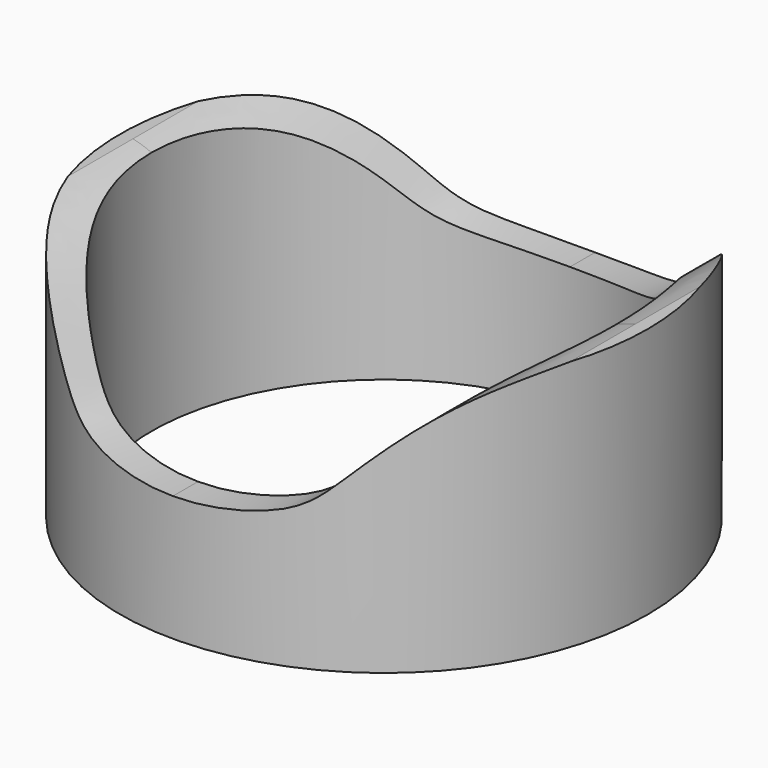
from build123d import *

# Parameters (mm, degrees)
F0_R     = 10.5
F0_R_2   = 9.25
F1_DEPTH = 10
F3_DEPTH = 12.5


with BuildPart() as f1:
    # F0 (on Top) → F1 (new body)
    with BuildSketch(Plane.XY):
        Circle(F0_R)
        Circle(F0_R_2, mode=Mode.SUBTRACT)
    extrude(amount=F1_DEPTH)

    # F2 (on Front) → F3 (cut, symmetric)
    with BuildSketch(Plane.XZ):
        with BuildLine():
            add(Edge.make_bspline(
                [(11.2434588373, 10.0891618058), (11.0047016615, 10.1132977758), (10.7632299901, 10.112965479), (10.5204237755, 10.0891618058)],
                knots=[0, 0, 0, 0, 0.0562635786, 0.0562635786, 0.0562635786, 0.0562635786], degree=3))
            Line((10.5204237755, 10.0891618058), (11.2434588373, 10.0891618058))
        make_face()
        with BuildLine():
            Line((10.5204237755, 10.0891618058), (-10.5204237755, 10.0891618058))
            add(Edge.make_bspline(
                [(-10.5204237755, 10.0891618058), (-9.8416288611, 10.0226156826), (-8.0921208581, 9.3880562532), (-5.7194913073, 6.93683362), (-4.2906021774, 5.397823396), (-1.4143970077, 5.0322200394), (-0.6250849692, 5.0027752295), (0, 5)],
                knots=[0.0562635786, 0.0562635786, 0.0562635786, 0.0562635786, 0.2135553971, 0.4555283654, 0.6401415553, 0.844289529, 1, 1, 1, 1], degree=3))
            add(Edge.make_bspline(
                [(10.5204237755, 10.0891618058), (9.8416288611, 10.0226156826), (8.0921208581, 9.3880562532), (5.7194913073, 6.93683362), (4.2906021774, 5.397823396), (1.4143970077, 5.0322200394), (0.6250849692, 5.0027752295), (0, 5)],
                knots=[0.0562635786, 0.0562635786, 0.0562635786, 0.0562635786, 0.2135553971, 0.4555283654, 0.6401415553, 0.844289529, 1, 1, 1, 1], degree=3))
        make_face()
        with BuildLine():
            add(Edge.make_bspline(
                [(-11.2434588373, 10.0891618058), (-11.0047016615, 10.1132977758), (-10.7632299901, 10.112965479), (-10.5204237755, 10.0891618058)],
                knots=[0, 0, 0, 0, 0.0562635786, 0.0562635786, 0.0562635786, 0.0562635786], degree=3))
            Line((-11.2434588373, 10.0891618058), (-10.5204237755, 10.0891618058))
        make_face()
    extrude(amount=F3_DEPTH, both=True, mode=Mode.SUBTRACT)


solid = f1.part
